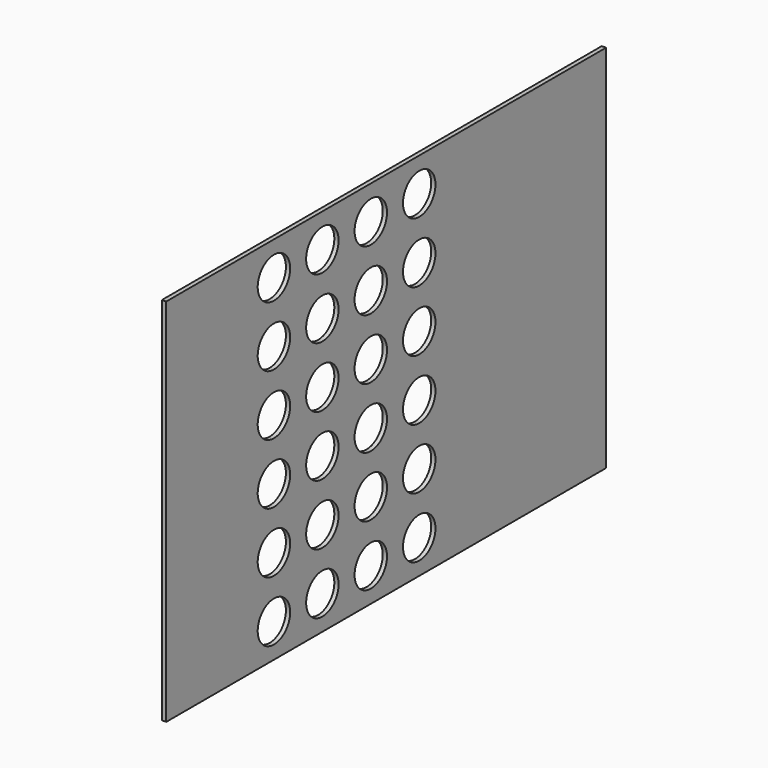
from build123d import *

# Parameters (mm, degrees)
BOX004_W         = 6.35
BOX004_H         = 297
BOX004_DEPTH     = 550.2
BOX005_W         = 6.35
BOX005_H         = 150
BOX005_DEPTH     = 550.2
SKETCH002_R      = 30.15
PAD001_DEPTH     = 200
ARRAY001_X_COUNT = 2
ARRAY001_X_PITCH = 1
ARRAY001_Y_COUNT = 4
ARRAY001_Y_PITCH = 90
ARRAY001_Z_COUNT = 6
ARRAY001_Z_PITCH = 90
BOX001_W         = 6.35
BOX001_H         = 370.3
BOX001_DEPTH     = 550.2


with BuildPart() as cubo004:
    # Box004 → Box004 (new body)
    with BuildSketch(Plane(origin=(0, -478.7, -44), x_dir=(1, 0, 0), z_dir=(0, 0, 1))):
        with Locations((3.175, 148.5)):
            Rectangle(BOX004_W, BOX004_H)
    extrude(amount=BOX004_DEPTH)


with BuildPart() as obj1:
    # Box005 → Box005 (new body)
    with BuildSketch(Plane(origin=(0, -999, -44), x_dir=(1, 0, 0), z_dir=(0, 0, 1))):
        with Locations((3.175, 75)):
            Rectangle(BOX005_W, BOX005_H)
    extrude(amount=BOX005_DEPTH)


with BuildPart() as obj2:
    # Sketch002 → Pad001 (new body)
    with BuildSketch(Plane.YZ):
        Circle(SKETCH002_R)
    extrude(amount=PAD001_DEPTH)


with BuildPart() as obj2_1:
    # Body001 placement: moved
    add(obj2.part.moved(Location((-418, 209, 0))))

    # Array001 X: obj2_2


with BuildPart() as obj2_2:
    add(obj2_1.part)
    with Locations(*[(i * ARRAY001_X_PITCH, 0, 0) for i in range(1, ARRAY001_X_COUNT)]):
        add(obj2_1.part)

    # Array001 Y: obj2_4


with BuildPart() as obj2_3:
    add(obj2_2.part)
    with Locations(*[(0, i * ARRAY001_Y_PITCH, 0) for i in range(1, ARRAY001_Y_COUNT)]):
        add(obj2_2.part)

    # Array001 Z: obj2 ×6


with BuildPart() as obj2_4:
    add(obj2_3.part)
    with Locations(*[(0, 0, i * ARRAY001_Z_PITCH) for i in range(1, ARRAY001_Z_COUNT)]):
        add(obj2_3.part)


with BuildPart() as obj2_5:
    # Array001 placement: moved
    add(obj2_4.part.moved(Location((228.35, -1007.85, 6.05))))


with BuildPart() as obj3:
    # Box001 → Box001 (new body)
    with BuildSketch(Plane(origin=(0, -849, -44), x_dir=(1, 0, 0), z_dir=(0, 0, 1))):
        with Locations((3.175, 185.15)):
            Rectangle(BOX001_W, BOX001_H)
    extrude(amount=BOX001_DEPTH)

    # Cut: cut obj2
    add(obj2_5.part, mode=Mode.SUBTRACT)

    # Fusion008: union Cubo004, obj1
    add(cubo004.part)
    add(obj1.part)


solid = obj3.part
